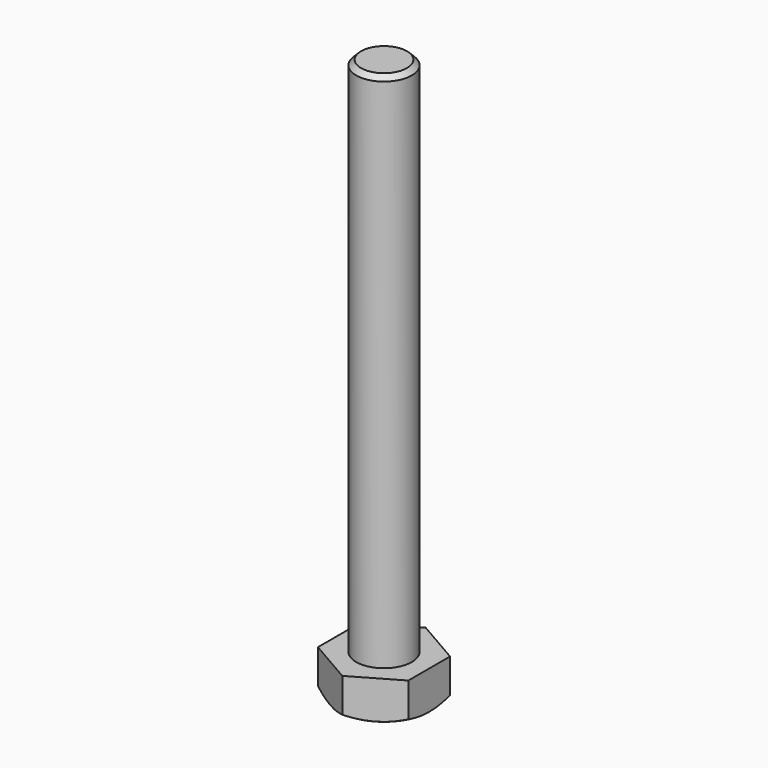
from build123d import *

# Parameters (mm, degrees)
F1_DEPTH = 5.5
F2_R     = 4
F3_DEPTH = 75
F6_SIZE  = 0.7


with BuildPart() as f1:
    # F0 (on Top) → F1 (new body)
    with BuildSketch(Plane.XY):
        Polygon((0, -7.505553), (6.5, -3.752777), (6.5, 3.752777), (0, 7.505553), (-6.5, 3.752777), (-6.5, -3.752777), align=None)
    extrude(amount=F1_DEPTH)

    # F2 (on face) → F3 (join)
    with BuildSketch(Plane.XY.offset(5.5)):
        Circle(F2_R)
    extrude(amount=F3_DEPTH)

    # F4 (on Front) → F5 (revolve, cut)
    with BuildSketch(Plane.XZ):
        Polygon((11.157986, 2.68929), (6.5, 0), (11.157986, 0), align=None)
    revolve(axis=Axis((0, 0, 4.89242), (0, 0, 1)), mode=Mode.SUBTRACT)

    # F6
    f6_edges = [f1.edges().sort_by_distance(p)[0] for p in [
        (-4, 0, 80.5),
    ]]
    chamfer(f6_edges, length=F6_SIZE)


solid = f1.part
